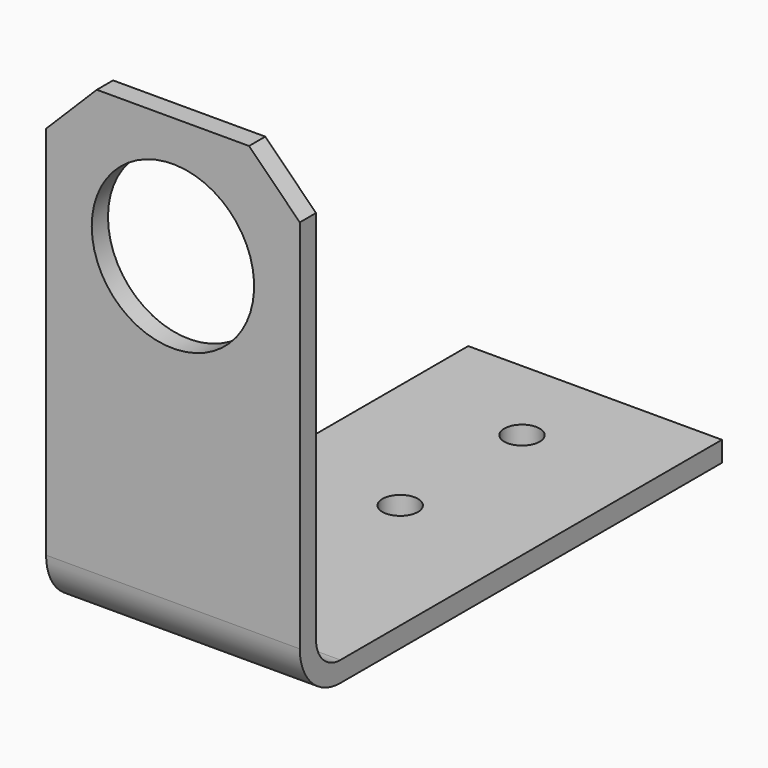
from build123d import *

# Parameters (mm, degrees)
F1_DEPTH = 25
F2_R     = 8
F3_DEPTH = 25
F4_SIZE  = 5
F5_R     = 1.75
F6_DEPTH = 25


with BuildPart() as f1:
    # F0 (on Right) → F1 (new body)
    with BuildSketch(Plane.YZ):
        with BuildLine():
            Line((2, 47), (0, 47))
            Line((0, 47), (0, 5))
            ThreePointArc((0, 5), (1.464466, 1.464466), (5, 0))
            Line((5, 0), (52, 0))
            Line((52, 0), (52, 2))
            Line((52, 2), (5, 2))
            ThreePointArc((5, 2), (2.87868, 2.87868), (2, 5))
            Line((2, 5), (2, 47))
        make_face()
    extrude(amount=F1_DEPTH)

    # F2 (on face) → F3 (cut)
    with BuildSketch(Plane(origin=(0, 2, 0), x_dir=(-1, 0, 0), z_dir=(0, 1, 0))):
        with Locations((-12.5, 35)):
            Circle(F2_R)
    extrude(amount=-F3_DEPTH, mode=Mode.SUBTRACT)

    # F4
    f4_edges = [f1.edges().sort_by_distance(p)[0] for p in [
        (0, 1, 47),
        (25, 1, 47),
    ]]
    chamfer(f4_edges, length=F4_SIZE)

    # F5 (on face) → F6 (cut)
    with BuildSketch(Plane.XY.offset(2)):
        with Locations((12.5, 43)):
            Circle(F5_R)
        with Locations((12.5, 28)):
            Circle(F5_R)
    extrude(amount=-F6_DEPTH, mode=Mode.SUBTRACT)


solid = f1.part
